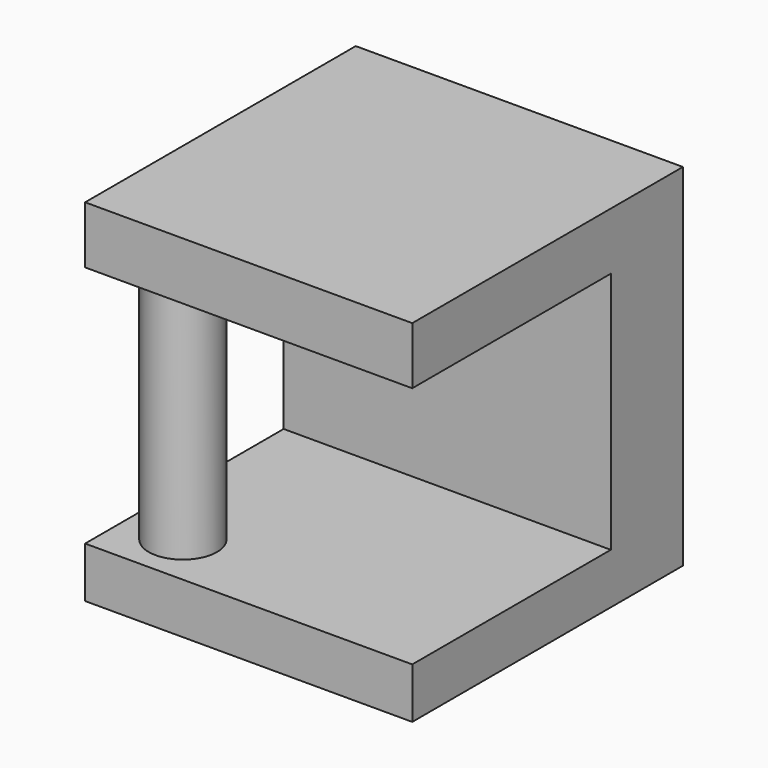
from build123d import *

# Parameters (mm, degrees)
F0_W     = 62.7262871712
F0_H     = 64.8624785244
F1_DEPTH = 67.31
F2_W     = 47.5787650794
F2_H     = 46.6077653691
F3_DEPTH = 72.644
F4_R     = 6.5399432167
F5_DEPTH = 52.07


with BuildPart() as f1:
    # F0 (on Top) → F1 (new body)
    with BuildSketch(Plane.XY):
        with Locations((-0.2912962809, -0.9709950536)):
            Rectangle(F0_W, F0_H)
    extrude(amount=F1_DEPTH)

    # F2 (on face) → F3 (cut)
    with BuildSketch(Plane.YZ.offset(31.0718473047)):
        with Locations((-9.6128517762, 33.0138341524)):
            Rectangle(F2_W, F2_H)
    extrude(amount=-F3_DEPTH, mode=Mode.SUBTRACT)

    # F4 (on face) → F5 (join)
    with BuildSketch(Plane.XY.offset(9.7099514678)):
        with Locations((-21.0486296564, -23.2247561216)):
            Circle(F4_R)
    extrude(amount=F5_DEPTH)


solid = f1.part
